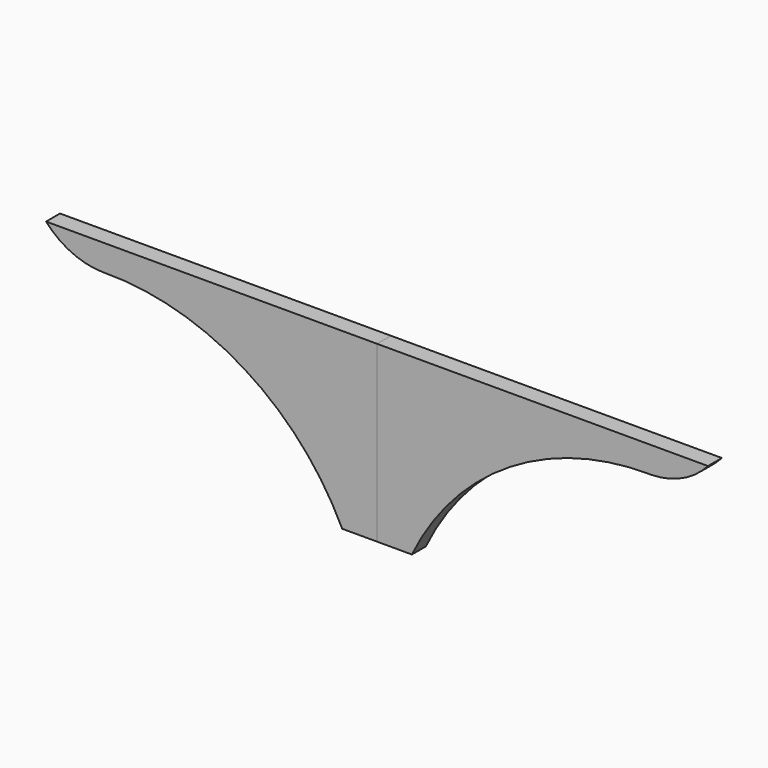
from build123d import *

# Parameters (mm, degrees)
F1_DEPTH = 50.8


with BuildPart() as f1:
    # F0 (on Front) → F1 (new body)
    with BuildSketch(Plane.XZ):
        with BuildLine():
            Line((800.1, 508), (0, 508))
            Line((0, 508), (0, 0))
            Line((0, 0), (101.6, 0))
            ThreePointArc((101.6, 0), (387.706965, 318.043145), (800.1, 431.8))
            Line((800.1, 431.8), (800.1, 508))
        make_face()
        with BuildLine():
            Line((965.2, 508), (800.1, 508))
            Line((800.1, 508), (800.1, 431.8))
            ThreePointArc((800.1, 431.8), (890.618407, 452.635118), (965.2, 508))
        make_face()
    extrude(amount=F1_DEPTH)


with BuildPart() as f2_1:
    # F2: instance of F1
    add(f1.part.mirror(Plane.YZ))


solid = Compound([f1.part, f2_1.part])
